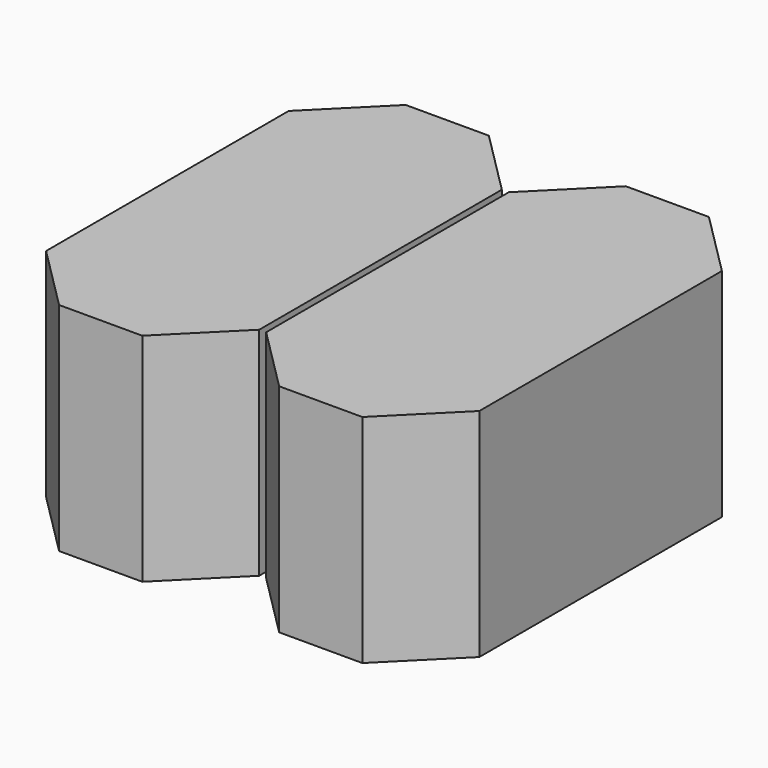
from build123d import *

# Parameters (mm, degrees)
BOX025_W         = 2.54
BOX025_H         = 3.2
BOX025_DEPTH     = 2.3
BOX023_W         = 2.46
BOX023_H         = 5
BOX023_DEPTH     = 2.5
CHAMFER004_SIZE  = 0.75
ARRAY010_X_COUNT = 2
ARRAY010_X_PITCH = 2.54


with BuildPart() as cube:
    # Box025 → Box025 (new body)
    with BuildSketch(Plane(origin=(0, -0.33, 0.1), x_dir=(1, 0, 0), z_dir=(0, 0, 1))):
        with Locations((1.27, 1.6)):
            Rectangle(BOX025_W, BOX025_H)
    extrude(amount=BOX025_DEPTH)


with BuildPart() as body:
    # Box023 → Box023 (new body)
    with BuildSketch(Plane(origin=(-1.23, -1.23, 0), x_dir=(1, 0, 0), z_dir=(0, 0, 1))):
        with Locations((1.23, 2.5)):
            Rectangle(BOX023_W, BOX023_H)
    extrude(amount=BOX023_DEPTH)

    # Chamfer004
    chamfer004_edges = [body.edges().sort_by_distance(p)[0] for p in [
        (-1.23, -1.23, 1.25),
        (-1.23, 3.77, 1.25),
        (1.23, -1.23, 1.25),
        (1.23, 3.77, 1.25),
    ]]
    chamfer(chamfer004_edges, length=CHAMFER004_SIZE)

    # Array010 X: Body ×2


with BuildPart() as body_1:
    add(body.part)
    with Locations(*[(i * ARRAY010_X_PITCH, 0, 0) for i in range(1, ARRAY010_X_COUNT)]):
        add(body.part)

    # Fusion021: union Cube
    add(cube.part)


solid = body_1.part
